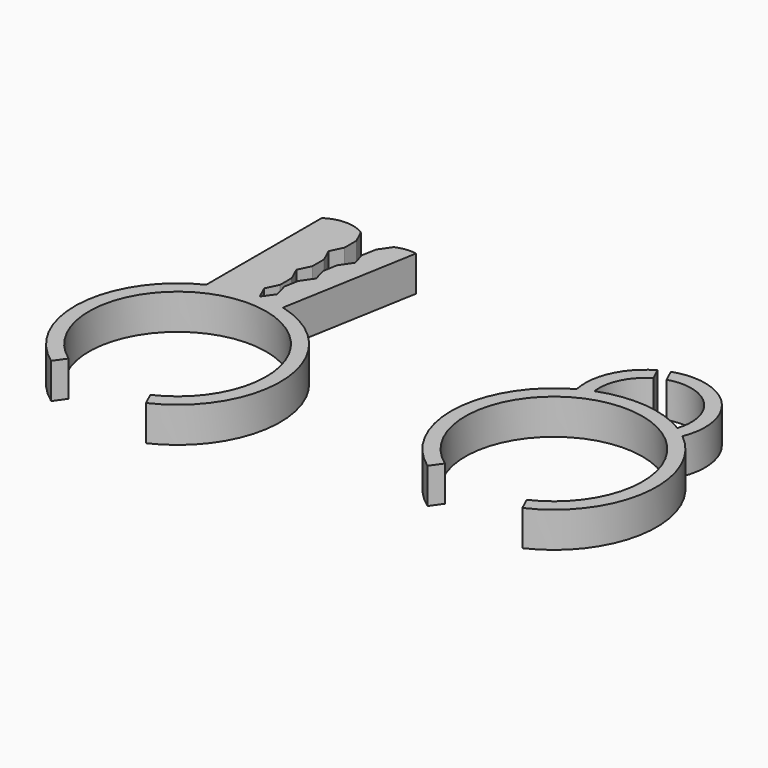
from build123d import *

# Parameters (mm, degrees)
F1_DEPTH = 5


with BuildPart() as f1:
    # F0 (on Top) → F1 (new body)
    with BuildSketch(Plane.XY):
        with BuildLine():
            ThreePointArc((-7.211006, -10.210357), (1.139735, 12.447932), (5.236926, -11.350093))
            Line((5.236926, -11.350093), (6.074834, -13.166108))
            ThreePointArc((6.074834, -13.166108), (14.442264, 1.292671), (3.64011, 14.035655))
            ThreePointArc((3.64011, 14.035655), (1.834804, 14.383445), (0, 14.5))
            ThreePointArc((0, 14.5), (-3.268993, 14.126701), (-6.369666, 13.026026))
            ThreePointArc((-6.369666, 13.026026), (-14.453567, 1.15948), (-8.364767, -11.844015))
            Line((-8.364767, -11.844015), (-7.211006, -10.210357))
        make_face()
        with BuildLine():
            ThreePointArc((0, 14.5), (1.834804, 14.383445), (3.64011, 14.035655))
            Line((3.64011, 14.035655), (7.029214, 33.288957))
            ThreePointArc((7.029214, 33.288957), (5.572466, 33.33288), (4.165434, 32.953003))
            Line((4.165434, 32.953003), (2.999686, 31.263912))
            Line((2.999686, 31.263912), (2.63776, 29.241264))
            Line((2.63776, 29.241264), (3.162493, 27.34801))
            Line((3.162493, 27.34801), (1.996745, 25.658919))
            Line((1.996745, 25.658919), (1.634818, 23.636271))
            Line((1.634818, 23.636271), (2.159551, 21.743017))
            Line((2.159551, 21.743017), (0.993804, 20.053926))
            Line((0.993804, 20.053926), (0.631877, 18.031278))
            Line((0.631877, 18.031278), (1.15661, 16.138024))
            Line((1.15661, 16.138024), (0, 14.5))
        make_face()
        with BuildLine():
            Line((-6.369666, 33.398191), (-6.369666, 13.026026))
            ThreePointArc((-6.369666, 13.026026), (-3.268993, 14.126701), (0, 14.5))
            Line((0, 14.5), (-0.850006, 16.316138))
            Line((-0.850006, 16.316138), (0, 18.087366))
            Line((0, 18.087366), (0, 20.14214))
            Line((0, 20.14214), (-0.850006, 22.010156))
            Line((-0.850006, 22.010156), (0, 23.781383))
            Line((0, 23.781383), (0, 25.836158))
            Line((0, 25.836158), (-0.850006, 27.704174))
            Line((-0.850006, 27.704174), (0, 29.475401))
            Line((0, 29.475401), (0, 31.530175))
            Line((0, 31.530175), (-0.850006, 33.398191))
            ThreePointArc((-0.850006, 33.398191), (-3.609836, 34.233318), (-6.369666, 33.398191))
        make_face()
        with BuildLine():
            ThreePointArc((40.821906, -3.862836), (49.172647, 18.795453), (53.269838, -5.002572))
            Line((53.269838, -5.002572), (54.107746, -6.818587))
            ThreePointArc((54.107746, -6.818587), (62.41851, 4.529677), (57.191972, 17.588589))
            ThreePointArc((57.191972, 17.588589), (55.499491, 26.608972), (46.583413, 28.785055))
            Line((46.583413, 28.785055), (47.408982, 27.006382))
            ThreePointArc((47.408982, 27.006382), (53.996688, 25.361068), (55.544988, 18.749888))
            ThreePointArc((55.544988, 18.749888), (49.355005, 20.787122), (42.897987, 19.907851))
            ThreePointArc((42.897987, 19.907851), (43.486895, 23.62111), (46.029036, 26.391061))
            Line((46.029036, 26.391061), (45.2057, 28.164921))
            ThreePointArc((45.2057, 28.164921), (41.649751, 24.291078), (41.067497, 19.06495))
            ThreePointArc((41.067497, 19.06495), (33.556388, 7.172299), (39.668145, -5.496494))
            Line((39.668145, -5.496494), (40.821906, -3.862836))
        make_face()
    extrude(amount=F1_DEPTH)


solid = f1.part
